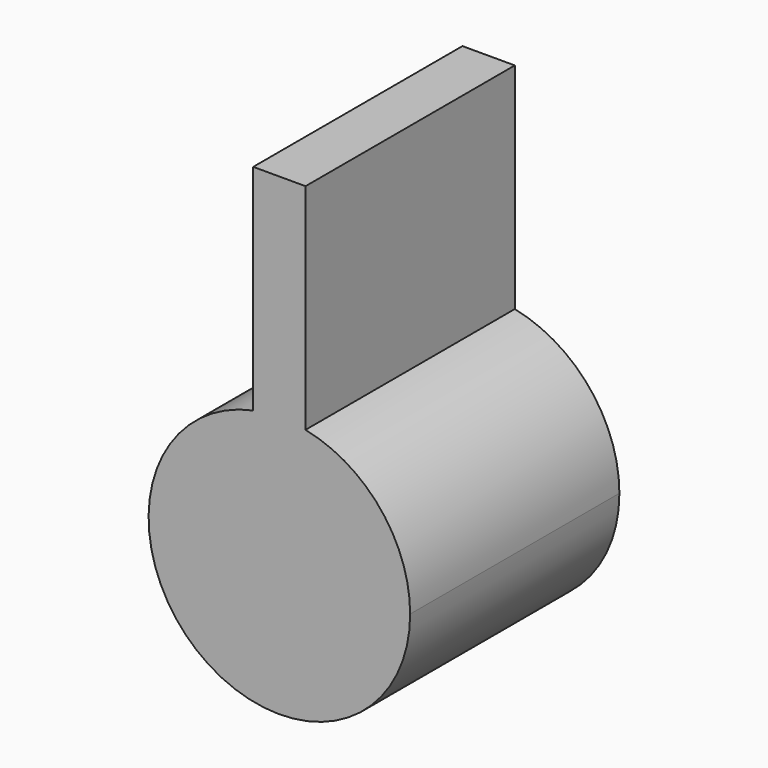
from build123d import *

# Parameters (mm, degrees)
F1_DEPTH = 25.4
F2_DEPTH = 25.4


with BuildPart() as f1:
    # F0 (on Front) → F1 (new body)
    with BuildSketch(Plane.XZ):
        with BuildLine():
            ThreePointArc((-2.54, 12.443408), (-8.032185, -9.837378), (12.7, 0))
            ThreePointArc((12.7, 0), (9.837378, 8.032185), (2.54, 12.443408))
            Line((2.54, 12.443408), (2.54, 0))
            Line((2.54, 0), (-2.54, 0))
            Line((-2.54, 0), (-2.54, 12.443408))
        make_face()
    extrude(amount=F1_DEPTH)

    # F0 (on Front) → F2 (join, through all)
    with BuildSketch(Plane.XZ):
        with BuildLine():
            ThreePointArc((-2.54, 12.443408), (0, 12.7), (2.54, 12.443408))
            Line((2.54, 12.443408), (2.54, 33.27414))
            Line((2.54, 33.27414), (-2.54, 33.27414))
            Line((-2.54, 33.27414), (-2.54, 12.443408))
        make_face()
        with BuildLine():
            Line((2.54, 0), (2.54, 12.443408))
            ThreePointArc((2.54, 12.443408), (0, 12.7), (-2.54, 12.443408))
            Line((-2.54, 12.443408), (-2.54, 0))
            Line((-2.54, 0), (2.54, 0))
        make_face()
    extrude(amount=F2_DEPTH)


solid = f1.part
